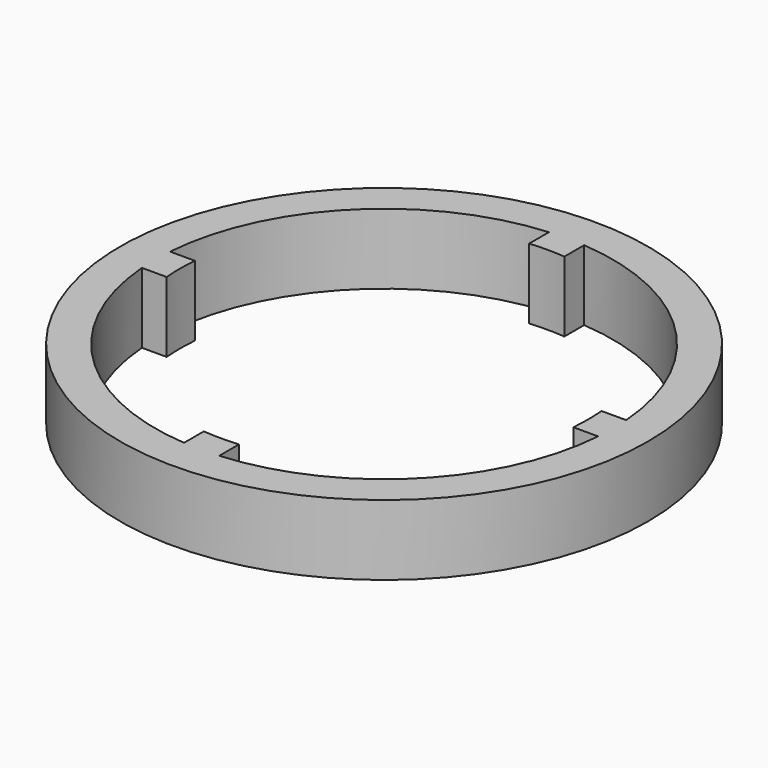
from build123d import *

# Parameters (mm, degrees)
F0_R     = 37.5
F1_DEPTH = 10


with BuildPart() as f1:
    # F0 (on Top) → F1 (new body)
    with BuildSketch(Plane.XY):
        Circle(F0_R)
        with BuildLine():
            ThreePointArc((32.403703, 2.5), (32.475917, 1.250927), (32.5, 0))
            ThreePointArc((32.5, 0), (32.475917, -1.250927), (32.403703, -2.5))
            ThreePointArc((32.403703, -2.5), (22.98097, -22.98097), (2.5, -32.403703))
            ThreePointArc((2.5, -32.403703), (0, -32.5), (-2.5, -32.403703))
            ThreePointArc((-2.5, -32.403703), (-22.98097, -22.98097), (-32.403703, -2.5))
            ThreePointArc((-32.403703, -2.5), (-32.5, 0), (-32.403703, 2.5))
            ThreePointArc((-32.403703, 2.5), (-22.98097, 22.98097), (-2.5, 32.403703))
            ThreePointArc((-2.5, 32.403703), (0, 32.5), (2.5, 32.403703))
            ThreePointArc((2.5, 32.403703), (22.98097, 22.98097), (32.403703, 2.5))
        make_face(mode=Mode.SUBTRACT)
        with BuildLine():
            Line((2.5, 28.89204), (2.5, 32.403703))
            ThreePointArc((2.5, 32.403703), (0, 32.5), (-2.5, 32.403703))
            Line((-2.5, 32.403703), (-2.5, 28.89204))
            ThreePointArc((-2.5, 28.89204), (0, 29), (2.5, 28.89204))
        make_face()
        with BuildLine():
            ThreePointArc((32.403703, -2.5), (32.475917, -1.250927), (32.5, 0))
            ThreePointArc((32.5, 0), (32.475917, 1.250927), (32.403703, 2.5))
            Line((32.403703, 2.5), (28.89204, 2.5))
            ThreePointArc((28.89204, 2.5), (29, 0), (28.89204, -2.5))
            Line((28.89204, -2.5), (32.403703, -2.5))
        make_face()
        with BuildLine():
            ThreePointArc((-2.5, -32.403703), (0, -32.5), (2.5, -32.403703))
            Line((2.5, -32.403703), (2.5, -28.89204))
            ThreePointArc((2.5, -28.89204), (0, -29), (-2.5, -28.89204))
            Line((-2.5, -28.89204), (-2.5, -32.403703))
        make_face()
        with BuildLine():
            Line((-28.89204, 2.5), (-32.403703, 2.5))
            ThreePointArc((-32.403703, 2.5), (-32.5, 0), (-32.403703, -2.5))
            Line((-32.403703, -2.5), (-28.89204, -2.5))
            ThreePointArc((-28.89204, -2.5), (-29, 0), (-28.89204, 2.5))
        make_face()
    extrude(amount=-F1_DEPTH)


solid = f1.part
